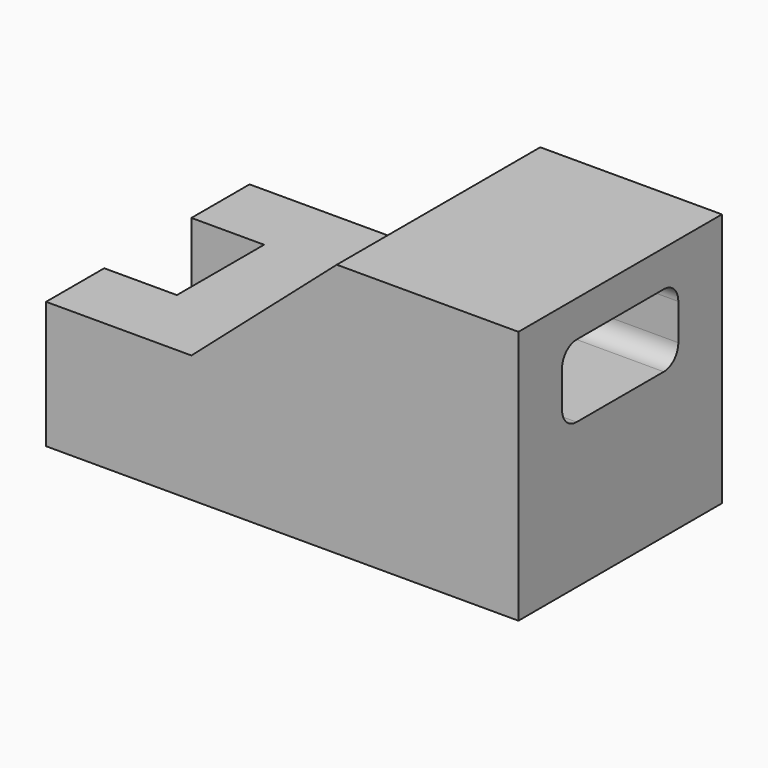
from build123d import *

# Parameters (mm, degrees)
F1_DEPTH = 70
F2_W     = 20
F2_H     = 30
F3_DEPTH = 35.001
F5_DEPTH = 130.001


with BuildPart() as f1:
    # F0 (on Front) → F1 (new body)
    with BuildSketch(Plane.XZ):
        Polygon((-65, 0), (-65, -35), (65, -35), (65, 35), (15, 35), (-25, 0), align=None)
    extrude(amount=F1_DEPTH)

    # F2 (on face) → F3 (cut, through all)
    with BuildSketch(Plane.XY):
        with Locations((-55, -35)):
            Rectangle(F2_W, F2_H)
    extrude(amount=-F3_DEPTH, mode=Mode.SUBTRACT)

    # F4 (on face) → F5 (cut, through all)
    with BuildSketch(Plane.YZ.offset(65)):
        with BuildLine():
            ThreePointArc((-55, 10), (-53.535534, 6.464466), (-50, 5))
            Line((-50, 5), (-20, 5))
            ThreePointArc((-20, 5), (-16.464466, 6.464466), (-15, 10))
            Line((-15, 10), (-15, 20))
            ThreePointArc((-15, 20), (-16.464466, 23.535534), (-20, 25))
            Line((-20, 25), (-50, 25))
            ThreePointArc((-50, 25), (-53.535534, 23.535534), (-55, 20))
            Line((-55, 20), (-55, 10))
        make_face()
    extrude(amount=-F5_DEPTH, mode=Mode.SUBTRACT)


solid = f1.part
